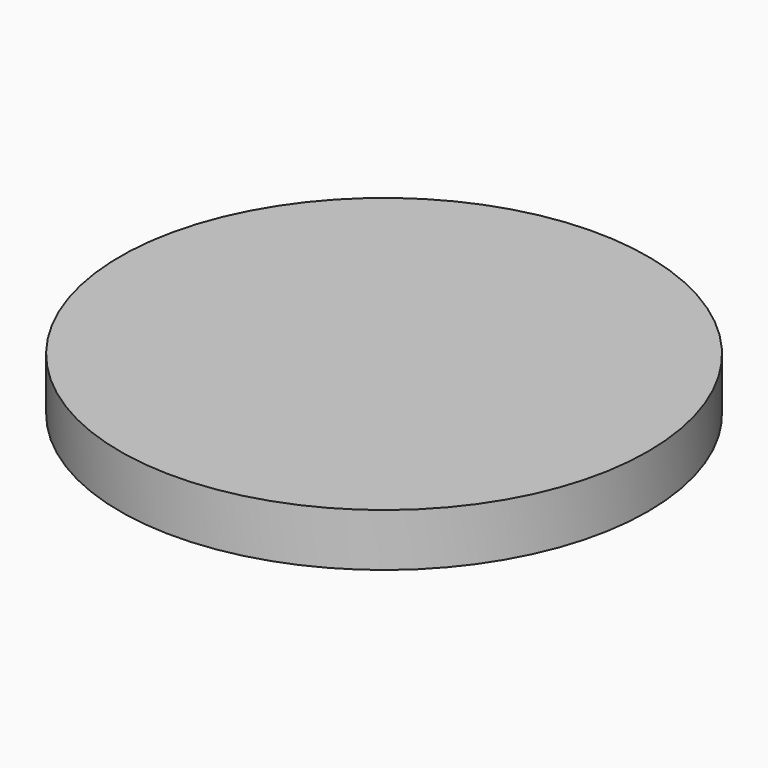
from build123d import *

# Parameters (mm, degrees)
SKETCH_R      = 20
EXTRUDE_DEPTH = 4


with BuildPart() as part:
    # Sketch → Extrude (new body)
    with BuildSketch(Plane.XY):
        Circle(SKETCH_R)
    extrude(amount=EXTRUDE_DEPTH)


solid = part.part
